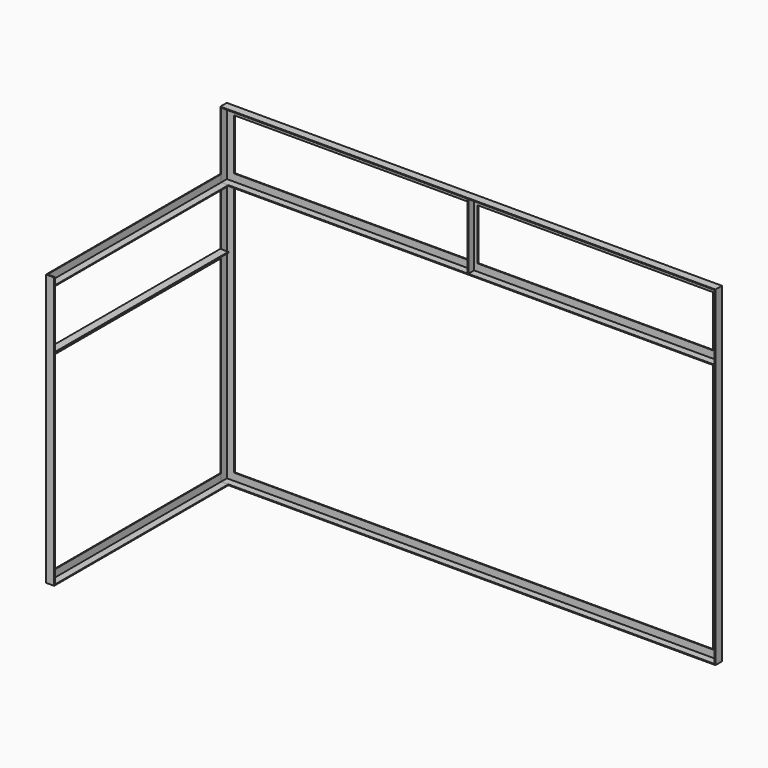
from build123d import *

# Parameters (mm, degrees)
F1_DEPTH = 4
F0_W     = 18
F0_H     = 254
F0_W_2   = 4
F0_H_2   = 36
F0_W_3   = 36
F0_H_3   = 4
F2_DEPTH = 40
F3_W     = 1076
F3_H     = 36
F3_W_2   = 36
F3_W_3   = 1040
F3_H_2   = 4
F3_H_3   = 287.0236907005
F4_DEPTH = 4
F5_DEPTH = 40


with BuildPart() as f1:
    # F0 (on Front) → F1 (new body)
    with BuildSketch(Plane.XZ):
        Polygon((-2173.5842666626, 1114.590233326), (-2173.5842666626, -187.409766674), (-2137.5842666626, -151.409766674), (-2137.5842666626, 1114.590233326), align=None)
        Polygon((237.4157333374, -151.409766674), (273.4157333374, -187.409766674), (273.4157333374, 1114.590233326), (237.4157333374, 1114.590233326), align=None)
        Polygon((-2137.5842666626, -151.409766674), (-2173.5842666626, -187.409766674), (273.4157333374, -187.409766674), (237.4157333374, -151.409766674), align=None)
    extrude(amount=F1_DEPTH)


with BuildPart() as f1b:
    # F0 (on Front) → F1, piece 2 (new body)
    with BuildSketch(Plane.XZ):
        Polygon((-2137.5842666626, 1408.590233326), (-2173.5842666626, 1444.590233326), (-2173.5842666626, 1118.590233326), (-2137.5842666626, 1118.590233326), (-2137.5842666626, 1154.590233326), align=None)
        Polygon((-970.0842666626, 1154.590233326), (-2137.5842666626, 1154.590233326), (-2137.5842666626, 1118.590233326), (-952.0842666626, 1118.590233326), (-952.0842666626, 1154.590233326), align=None)
        Polygon((-952.0842666626, 1444.590233326), (-2173.5842666626, 1444.590233326), (-2137.5842666626, 1408.590233326), (-970.0842666626, 1408.590233326), (-952.0842666626, 1408.590233326), align=None)
        with Locations((-961.0842666626, 1281.590233326)):
            Rectangle(F0_W, F0_H)
        with Locations((-939.0842666626, 1281.590233326)):
            Rectangle(F0_W, F0_H)
        Polygon((237.4157333374, 1118.590233326), (237.4157333374, 1154.590233326), (-930.0842666626, 1154.590233326), (-948.0842666626, 1154.590233326), (-948.0842666626, 1118.590233326), align=None)
        Polygon((237.4157333374, 1408.590233326), (273.4157333374, 1444.590233326), (-948.0842666626, 1444.590233326), (-948.0842666626, 1408.590233326), (-930.0842666626, 1408.590233326), align=None)
        Polygon((273.4157333374, 1118.590233326), (273.4157333374, 1444.590233326), (237.4157333374, 1408.590233326), (237.4157333374, 1154.590233326), (237.4157333374, 1118.590233326), align=None)
        with Locations((-950.0842666626, 1281.590233326)):
            Rectangle(F0_W_2, F0_H)
        with Locations((-950.0842666626, 1136.590233326)):
            Rectangle(F0_W_2, F0_H_2)
        with Locations((-950.0842666626, 1426.590233326)):
            Rectangle(F0_W_2, F0_H_2)
    extrude(amount=F1_DEPTH)


with BuildPart() as f2:
    # F0 (on Front) → F2 (new body)
    with BuildSketch(Plane.XZ):
        Polygon((277.4157333374, 1448.590233326), (-2177.5842666626, 1448.590233326), (-2173.5842666626, 1444.590233326), (-952.0842666626, 1444.590233326), (-948.0842666626, 1444.590233326), (273.4157333374, 1444.590233326), align=None)
        with Locations((-950.0842666626, 1426.590233326)):
            Rectangle(F0_W_2, F0_H_2)
        with Locations((-950.0842666626, 1281.590233326)):
            Rectangle(F0_W_2, F0_H)
        with Locations((-950.0842666626, 1136.590233326)):
            Rectangle(F0_W_2, F0_H_2)
        Polygon((-952.0842666626, 1118.590233326), (-2137.5842666626, 1118.590233326), (-2137.5842666626, 1114.590233326), (237.4157333374, 1114.590233326), (237.4157333374, 1118.590233326), (-948.0842666626, 1118.590233326), align=None)
        Polygon((277.4157333374, -191.409766674), (277.4157333374, 1448.590233326), (273.4157333374, 1444.590233326), (273.4157333374, 1118.590233326), (273.4157333374, 1114.590233326), (273.4157333374, -187.409766674), align=None)
        Polygon((-2173.5842666626, 1444.590233326), (-2177.5842666626, 1448.590233326), (-2177.5842666626, -191.409766674), (-2173.5842666626, -187.409766674), (-2173.5842666626, 1114.590233326), (-2173.5842666626, 1118.590233326), align=None)
        with Locations((-2155.5842666626, 1116.590233326)):
            Rectangle(F0_W_3, F0_H_3)
        with Locations((255.4157333374, 1116.590233326)):
            Rectangle(F0_W_3, F0_H_3)
        Polygon((-2173.5842666626, -187.409766674), (-2177.5842666626, -191.409766674), (277.4157333374, -191.409766674), (273.4157333374, -187.409766674), align=None)
    extrude(amount=F2_DEPTH)


with BuildPart() as f4:
    # F3 (on face) → F4 (new body)
    with BuildSketch(Plane(origin=(-2177.5842666626, 0, 0), x_dir=(0, -1, 0), z_dir=(-1, 0, 0))):
        Polygon((40, -187.409766674), (40, -191.409766674), (1120, -191.409766674), (1116, -187.409766674), align=None)
        Polygon((1116, -187.409766674), (1120, -191.409766674), (1120, 1154.590233326), (1116, 1154.590233326), (1116, 1118.590233326), (1116, 1114.590233326), (1116, 827.5665426254), (1116, 823.5665426254), (1116, 787.5665426254), align=None)
        Polygon((40, -151.409766674), (40, -187.409766674), (1116, -187.409766674), (1080, -151.409766674), align=None)
        Polygon((1080, -151.409766674), (1116, -187.409766674), (1116, 787.5665426254), (1080, 787.5665426254), align=None)
        with Locations((578, 1136.590233326)):
            Rectangle(F3_W, F3_H)
        with Locations((1098, 805.5665426254)):
            Rectangle(F3_W_2, F3_H)
        Polygon((1116, 1114.590233326), (1116, 1118.590233326), (40, 1118.590233326), (40, 1114.590233326), (1080, 1114.590233326), align=None)
        with Locations((560, 805.5665426254)):
            Rectangle(F3_W_3, F3_H)
        with Locations((1098, 825.5665426254)):
            Rectangle(F3_W_2, F3_H_2)
        with Locations((1098, 971.0783879757)):
            Rectangle(F3_W_2, F3_H_3)
        with Locations((560, 825.5665426254)):
            Rectangle(F3_W_3, F3_H_2)
    extrude(amount=-F4_DEPTH)


with BuildPart() as f5:
    # F3 (on face) → F5 (new body)
    with BuildSketch(Plane(origin=(-2177.5842666626, 0, 0), x_dir=(0, -1, 0), z_dir=(-1, 0, 0))):
        with Locations((560, 825.5665426254)):
            Rectangle(F3_W_3, F3_H_2)
        with Locations((1098, 825.5665426254)):
            Rectangle(F3_W_2, F3_H_2)
        Polygon((1116, -187.409766674), (1120, -191.409766674), (1120, 1154.590233326), (1116, 1154.590233326), (1116, 1118.590233326), (1116, 1114.590233326), (1116, 827.5665426254), (1116, 823.5665426254), (1116, 787.5665426254), align=None)
        Polygon((1116, 1114.590233326), (1116, 1118.590233326), (40, 1118.590233326), (40, 1114.590233326), (1080, 1114.590233326), align=None)
        Polygon((40, -187.409766674), (40, -191.409766674), (1120, -191.409766674), (1116, -187.409766674), align=None)
    extrude(amount=-F5_DEPTH)


solid = Compound([f1.part, f1b.part, f2.part, f4.part, f5.part])
